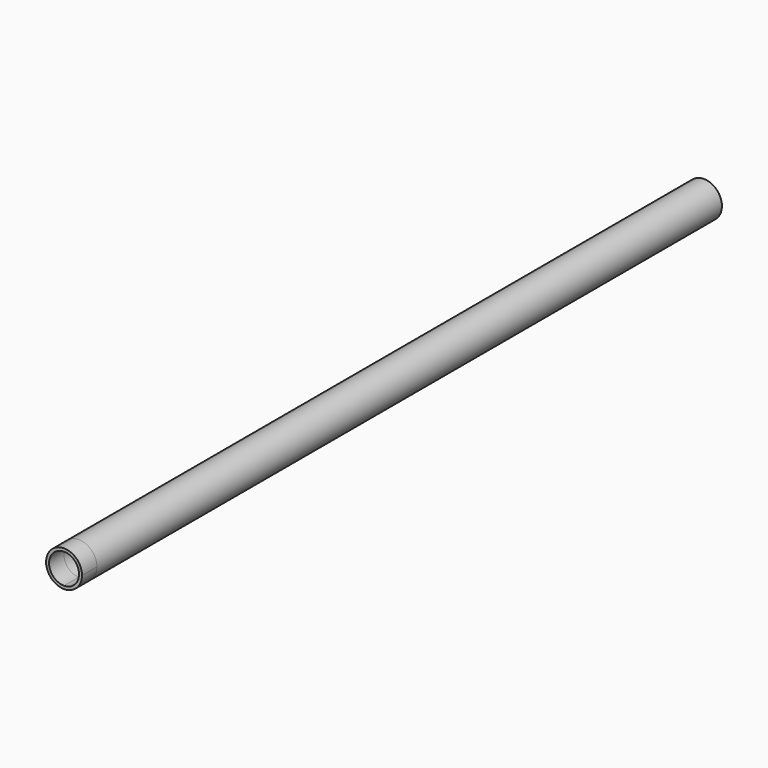
from build123d import *

# Parameters (mm, degrees)
F1_DEPTH    = 25
F1_FACE_R   = 24.15
F1_FACE_R_2 = 20.15
F2_DEPTH    = 50
F2_FACE_R   = 24.15
F2_FACE_R_2 = 20.15
F3_DEPTH    = 1000


with BuildPart() as f1:
    # F0 (on Front) → F1 (new body)
    with BuildSketch(Plane.XZ):
        with BuildLine():
            ThreePointArc((0, -24.15), (17.076629, -17.076629), (24.15, 0))
            ThreePointArc((24.15, 0), (-17.076629, 17.076629), (0, -24.15))
        make_face()
        with BuildLine():
            ThreePointArc((20.15, 0), (14.248202, -14.248202), (0, -20.15))
            ThreePointArc((0, -20.15), (-14.248202, 14.248202), (20.15, 0))
        make_face(mode=Mode.SUBTRACT)
    extrude(amount=F1_DEPTH)

    # F1_face (on face) → F2 (join)
    with BuildSketch(Plane(origin=(0, 0, 0), x_dir=(1, 0, 0), z_dir=(0, 1, 0))):
        Circle(F1_FACE_R)
        Circle(F1_FACE_R_2, mode=Mode.SUBTRACT)
    extrude(amount=F2_DEPTH)

    # F2_face (on face) → F3 (join)
    with BuildSketch(Plane(origin=(0, 50, 0), x_dir=(1, 0, 0), z_dir=(0, 1, 0))):
        Circle(F2_FACE_R)
        Circle(F2_FACE_R_2, mode=Mode.SUBTRACT)
    extrude(amount=F3_DEPTH)


solid = f1.part
